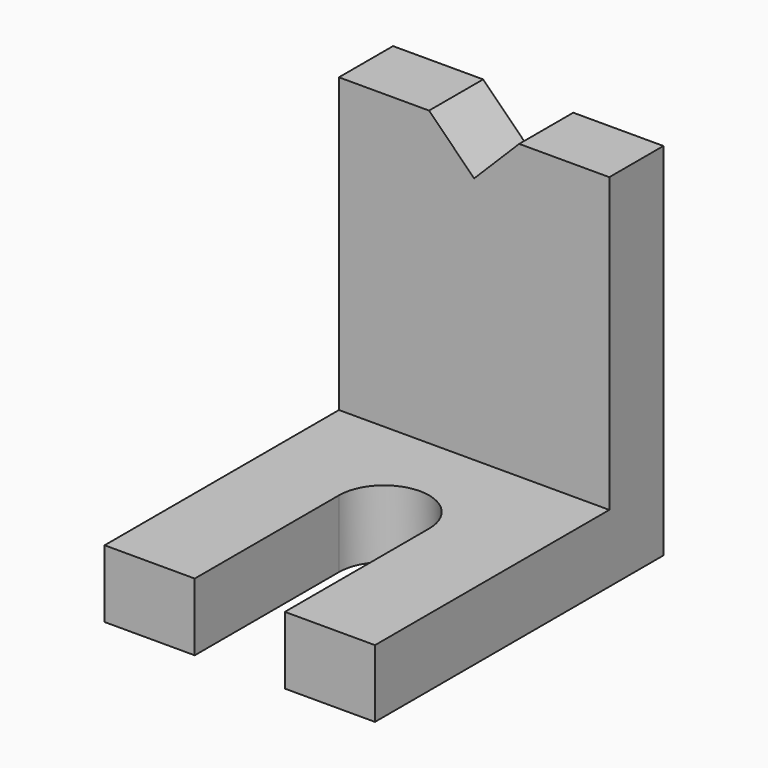
from build123d import *

# Parameters (mm, degrees)
F1_DEPTH = 0.375
F2_W     = 1.5
F2_H     = 0.375
F3_DEPTH = 1.625
F5_DEPTH = 0.375


with BuildPart() as f1:
    # F0 (on Top) → F1 (new body)
    with BuildSketch(Plane.XY):
        with BuildLine():
            Line((-23.237459, -5.446789), (-24.737459, -5.446789))
            Line((-24.737459, -5.446789), (-24.737459, -7.446789))
            Line((-24.737459, -7.446789), (-24.237459, -7.446789))
            Line((-24.237459, -7.446789), (-24.237459, -6.446789))
            ThreePointArc((-24.237459, -6.446789), (-23.987459, -6.196789), (-23.737459, -6.446789))
            Line((-23.737459, -6.446789), (-23.737459, -7.446789))
            Line((-23.737459, -7.446789), (-23.237459, -7.446789))
            Line((-23.237459, -7.446789), (-23.237459, -5.446789))
        make_face()
    extrude(amount=F1_DEPTH)

    # F2 (on face) → F3 (join)
    with BuildSketch(Plane.XY.offset(0.375)):
        with Locations((-23.987459, -5.634289)):
            Rectangle(F2_W, F2_H)
    extrude(amount=F3_DEPTH)

    # F4 (on face) → F5 (cut, through all)
    with BuildSketch(Plane.XZ.offset(5.821789)):
        Polygon((-23.737459, 2), (-24.237459, 2), (-23.987459, 1.75), align=None)
    extrude(amount=-F5_DEPTH, mode=Mode.SUBTRACT)


solid = f1.part
